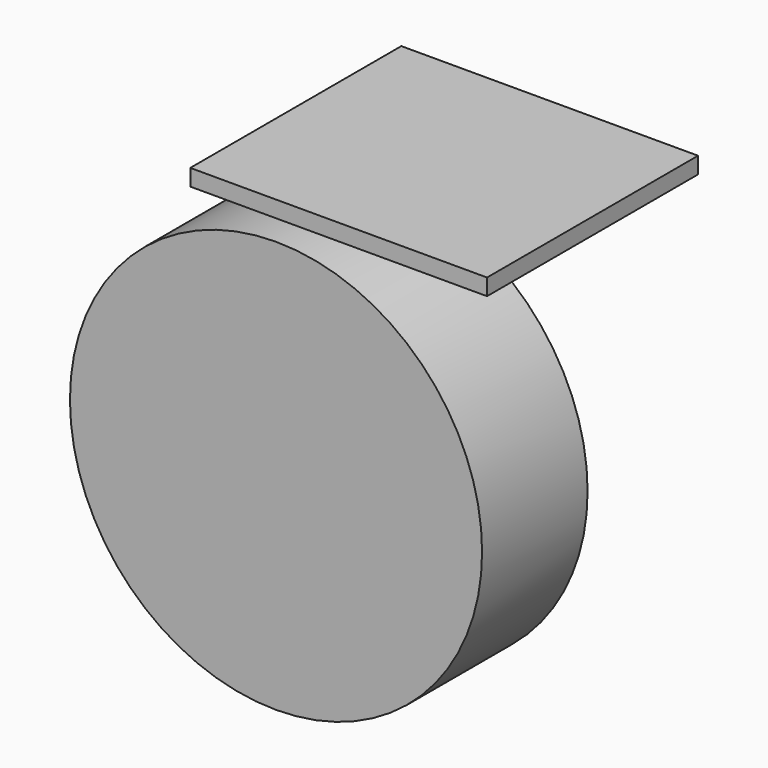
from build123d import *

# Parameters (mm, degrees)
F0_R     = 79.375
F1_DEPTH = 25.4
F2_W     = 114.3
F2_H     = 101.6
F3_DEPTH = 6.35


with BuildPart() as f1:
    # F0 (on Front) → F1 (new body, symmetric)
    with BuildSketch(Plane.XZ):
        with Locations((-44.45, -110.617)):
            Circle(F0_R)
    extrude(amount=F1_DEPTH, both=True)


with BuildPart() as f3:
    # F2 (on Top) → F3 (new body)
    with BuildSketch(Plane.XY):
        Rectangle(F2_W, F2_H)
    extrude(amount=-F3_DEPTH)


solid = Compound([f1.part, f3.part])
